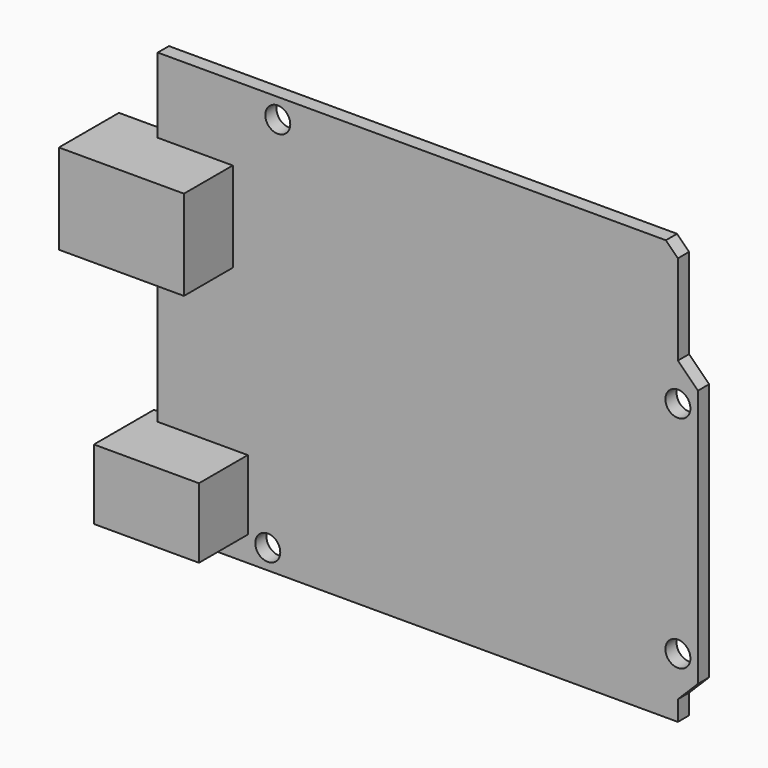
from build123d import *

# Parameters (mm, degrees)
F2_DEPTH = 1.778
F1_W     = 13.335
F1_H     = 8.89
F3_DEPTH = 9.525
F4_R     = 1.5875
F5_DEPTH = 25.4


with BuildPart() as f2:
    # F0 (on Front) → F2 (new body)
    with BuildSketch(Plane.XZ):
        Polygon((0, 53.34), (0, 0), (66.04, 0), (66.04, 2.54), (68.58, 5.08), (68.58, 37.846), (66.04, 40.386), (66.04, 51.816), (64.516, 53.34), align=None)
    extrude(amount=F2_DEPTH)

    # F1 (on Front) → F3 (join)
    with BuildSketch(Plane.XZ):
        with Locations((4.7625, 7.62)):
            Rectangle(F1_W, F1_H)
        Polygon((-6.35, 43.815), (-6.35, 32.497641), (-6.35, 32.385), (9.525, 32.385), (9.525, 43.815), align=None)
    extrude(amount=F3_DEPTH)

    # F4 (on face) → F5 (cut)
    with BuildSketch(Plane.XZ.offset(1.778)):
        with Locations((13.97, 2.54)):
            Circle(F4_R)
        with Locations((15.24, 50.8)):
            Circle(F4_R)
        with Locations((66.04, 35.56)):
            Circle(F4_R)
        with Locations((66.04, 7.62)):
            Circle(F4_R)
    extrude(amount=-F5_DEPTH, mode=Mode.SUBTRACT)


solid = f2.part
